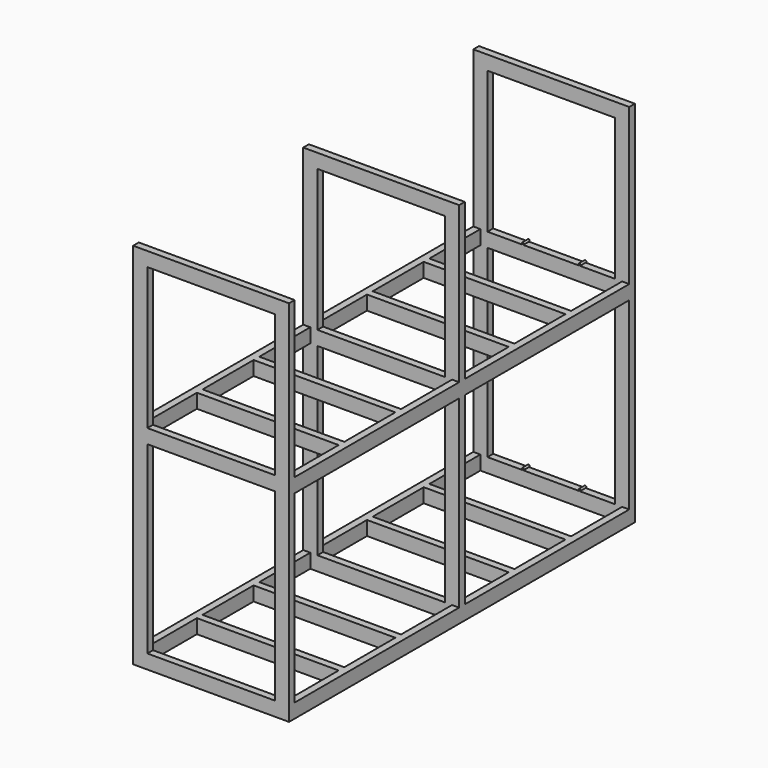
from build123d import *

# Parameters (mm, degrees)
F1_W      = 1100
F1_H      = 2600
F2_DEPTH  = 4550
F3_W      = 900
F3_H      = 1300
F3_H_2    = 1000
F4_DEPTH  = 20000
F5_W      = 1450
F5_H      = 4290.098786
F5_H_2    = 4287.803769
F6_DEPTH  = 2000
F7_W      = 50
F7_H      = 100
F8_DEPTH  = 4550
F10_W     = 50
F10_H     = 100
F10_W_2   = 50.206947
F10_W_3   = 49.793053
F11_DEPTH = 1050
F9_R      = 7.5
F12_DEPTH = 1550
F13_W     = 1620.942185
F13_H     = 2600
F14_DEPTH = 1200
F15_R     = 10
F16_DEPTH = 5


with BuildPart() as f2:
    # F1 (on Front) → F2 (new body)
    with BuildSketch(Plane.XZ):
        with Locations((0, 1300)):
            Rectangle(F1_W, F1_H)
    extrude(amount=F2_DEPTH)

    # F3 (on face) → F4 (cut)
    with BuildSketch(Plane.XZ.offset(4550)):
        with Locations((0, 750)):
            Rectangle(F3_W, F3_H)
        with Locations((0, 2000)):
            Rectangle(F3_W, F3_H_2)
    extrude(amount=-F4_DEPTH, mode=Mode.SUBTRACT)

    # F5 (on face) → F6 (cut)
    with BuildSketch(Plane.YZ.offset(550)):
        with Locations((-2275, 1869.349897)):
            Rectangle(F5_W, F5_H)
        with Locations((-3775, 1868.202388)):
            Rectangle(F5_W, F5_H_2)
    extrude(amount=-F6_DEPTH, mode=Mode.SUBTRACT)

    # F7 (on face) → F8 (join)
    with BuildSketch(Plane.XZ.offset(4550)):
        with Locations((525, 1450)):
            Rectangle(F7_W, F7_H)
        with Locations((-525, 1450)):
            Rectangle(F7_W, F7_H)
        with Locations((-525, 50)):
            Rectangle(F7_W, F7_H)
        with Locations((525, 50)):
            Rectangle(F7_W, F7_H)
    extrude(amount=-F8_DEPTH)

    # F10 (on face) → F11 (join, through all)
    with BuildSketch(Plane.YZ.offset(550)):
        with Locations((-2525, 1450)):
            Rectangle(F10_W, F10_H)
        with Locations((-2025, 1450)):
            Rectangle(F10_W, F10_H)
        with Locations((-4025, 1450)):
            Rectangle(F10_W, F10_H)
        with Locations((-3525, 1450)):
            Rectangle(F10_W, F10_H)
        with Locations((-4025, 50)):
            Rectangle(F10_W, F10_H)
        with Locations((-3525, 50)):
            Rectangle(F10_W, F10_H)
        with Locations((-2524.896526, 50)):
            Rectangle(F10_W_2, F10_H)
        with Locations((-2024.896526, 50)):
            Rectangle(F10_W_3, F10_H)
    extrude(amount=-F11_DEPTH)

    # F9 (on face) → F12 (join, through all)
    with BuildSketch(Plane(origin=(0, 0, 0), x_dir=(-1, 0, 0), z_dir=(0, 1, 0))):
        with Locations((200, 1507.5)):
            Circle(F9_R)
        with Locations((-200, 1507.5)):
            Circle(F9_R)
        with Locations((200, 107.5)):
            Circle(F9_R)
        with Locations((-200, 107.5)):
            Circle(F9_R)
    extrude(amount=-F12_DEPTH)

    # F13 (on face) → F14 (cut)
    with BuildSketch(Plane.YZ.offset(550)):
        with Locations((-689.528908, 1300)):
            Rectangle(F13_W, F13_H)
    extrude(amount=-F14_DEPTH, mode=Mode.SUBTRACT)

    # F15 (on face) → F16 (cut)
    with BuildSketch(Plane(origin=(0, 0, 0), x_dir=(1, 0, 0), z_dir=(0, 0, -1))):
        with Locations((525, 4525)):
            Circle(F15_R)
        with Locations((-525, 4525)):
            Circle(F15_R)
    extrude(amount=-F16_DEPTH, mode=Mode.SUBTRACT)


solid = f2.part
